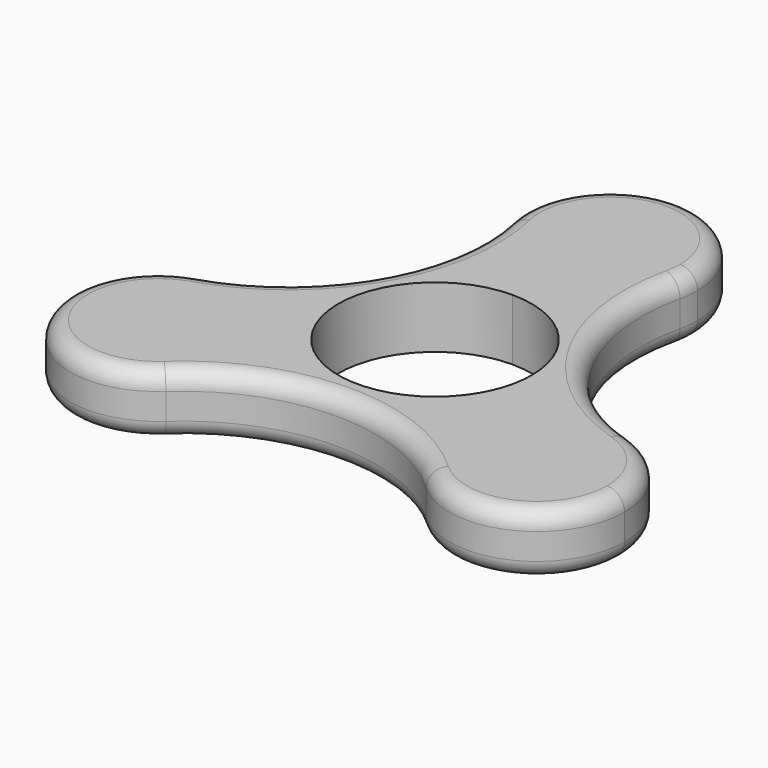
from build123d import *

# Parameters (mm, degrees)
F1_DEPTH = 7
F2_R     = 2


with BuildPart() as f1:
    # F0 (on Top) → F1 (new body)
    with BuildSketch(Plane.XY):
        with BuildLine():
            ThreePointArc((-11.650635, -12.5), (-11.991377, -9.91181), (-12.990381, -7.5))
            ThreePointArc((-12.990381, -7.5), (-18.014847, -3.184365), (-24.634333, -2.955496))
            ThreePointArc((-24.634333, -2.955496), (-30.310889, -17.5), (-14.876701, -19.85621))
            ThreePointArc((-14.876701, -19.85621), (-12.492597, -16.516258), (-11.650635, -12.5))
        make_face()
        with BuildLine():
            ThreePointArc((-9.569581, -5.525), (-9.569581, 5.525), (0, 11.05))
            Line((0, 11.05), (0, 15))
            ThreePointArc((0, 15), (-6.249682, 17.193498), (-9.757631, 22.811706))
            ThreePointArc((-9.757631, 22.811706), (-12.167657, 7.025), (-24.634333, -2.955496))
            ThreePointArc((-24.634333, -2.955496), (-18.014847, -3.184365), (-12.990381, -7.5))
            Line((-12.990381, -7.5), (-9.569581, -5.525))
        make_face()
        with BuildLine():
            ThreePointArc((0, 11.05), (7.81353, 7.81353), (11.05, 0))
            ThreePointArc((11.05, 0), (10.67348, -2.85995), (9.569581, -5.525))
            Line((9.569581, -5.525), (12.990381, -7.5))
            ThreePointArc((12.990381, -7.5), (18.014847, -3.184365), (24.634333, -2.955496))
            ThreePointArc((24.634333, -2.955496), (12.167657, 7.025), (9.757631, 22.811706))
            ThreePointArc((9.757631, 22.811706), (6.249682, 17.193498), (0, 15))
            Line((0, 15), (0, 11.05))
        make_face()
        with BuildLine():
            ThreePointArc((-9.757631, 22.811706), (-6.249682, 17.193498), (0, 15))
            ThreePointArc((0, 15), (6.249682, 17.193498), (9.757631, 22.811706))
            ThreePointArc((9.757631, 22.811706), (9.939223, 23.899162), (10, 25))
            ThreePointArc((10, 25), (-1.100838, 34.939223), (-9.757631, 22.811706))
        make_face()
        with BuildLine():
            ThreePointArc((24.634333, -2.955496), (18.014847, -3.184365), (12.990381, -7.5))
            ThreePointArc((12.990381, -7.5), (11.765165, -14.009133), (14.876701, -19.85621))
            ThreePointArc((14.876701, -19.85621), (25.666893, -21.658039), (31.650635, -12.5))
            ThreePointArc((31.650635, -12.5), (29.707836, -6.577035), (24.634333, -2.955496))
        make_face()
        with BuildLine():
            Line((12.990381, -7.5), (9.569581, -5.525))
            ThreePointArc((9.569581, -5.525), (0, -11.05), (-9.569581, -5.525))
            Line((-9.569581, -5.525), (-12.990381, -7.5))
            ThreePointArc((-12.990381, -7.5), (-11.991377, -9.91181), (-11.650635, -12.5))
            ThreePointArc((-11.650635, -12.5), (-12.492597, -16.516258), (-14.876701, -19.85621))
            ThreePointArc((-14.876701, -19.85621), (0, -14.05), (14.876701, -19.85621))
            ThreePointArc((14.876701, -19.85621), (11.765165, -14.009133), (12.990381, -7.5))
        make_face()
    extrude(amount=F1_DEPTH)

    # F2
    f2_edges = [f1.edges().sort_by_distance(p)[0] for p in [
        (0, -14.05, 7),
        (0, -14.05, 0),
    ]]
    fillet(f2_edges, radius=F2_R)


solid = f1.part
